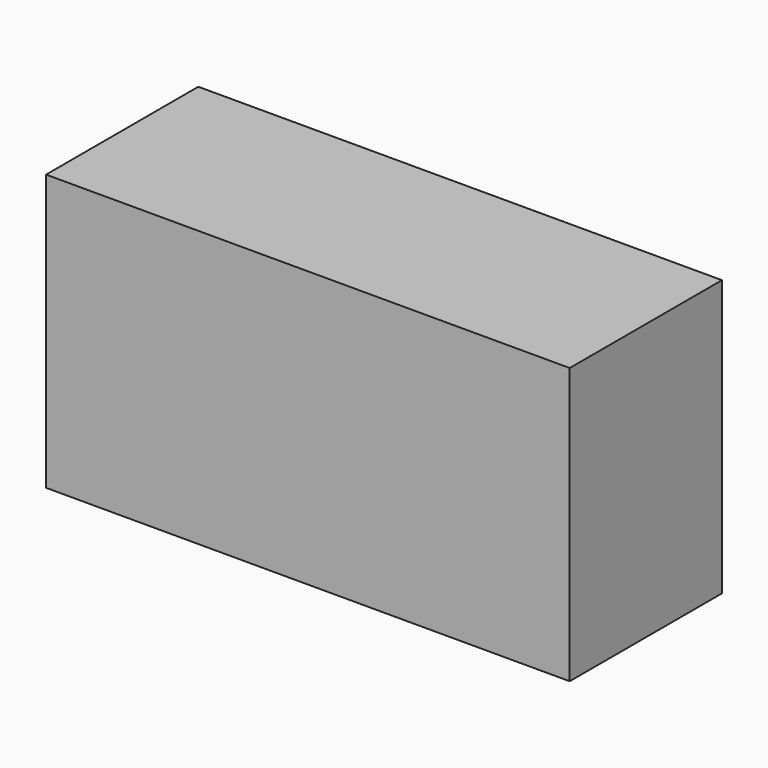
from build123d import *

# Parameters (mm, degrees)
F0_W     = 68.8062906265
F0_H     = 36.2356640399
F1_DEPTH = 25
F2_D     = 5
F2_DEPTH = 12
F2_TIP   = 1.5021515476


with BuildPart() as f1:
    # F0 (on Front) → F1 (new body)
    with BuildSketch(Plane.XZ):
        with Locations((-34.4031453133, 46.5417616069)):
            Rectangle(F0_W, F0_H)
    extrude(amount=F1_DEPTH)

    # F2
    with Locations(Plane(origin=(0, 0, 0), x_dir=(1, 0, 0), z_dir=(0, 1, 0))):
        with Locations((-34.4031453133, -46.5417616069)):
            Hole(F2_D / 2, depth=F2_DEPTH)
            with Locations((0, 0, -(F2_DEPTH + F2_TIP / 2))):  # 118° drill point
                Cone(0, F2_D / 2, F2_TIP, mode=Mode.SUBTRACT)


solid = f1.part
